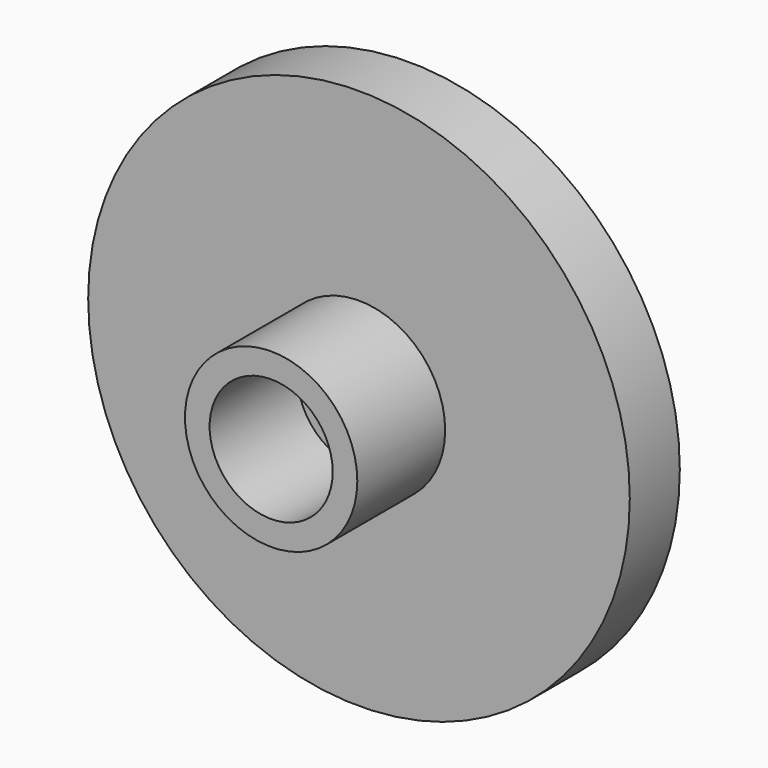
from build123d import *

# Parameters (mm, degrees)
F0_R     = 3.5
F0_R_2   = 2.5
F1_DEPTH = 7
F2_R     = 11
F3_DEPTH = 2.54


with BuildPart() as f1:
    # F0 (on Front) → F1 (new body)
    with BuildSketch(Plane.XZ):
        Circle(F0_R)
        Circle(F0_R_2, mode=Mode.SUBTRACT)
    extrude(amount=F1_DEPTH)

    # F2 (on Front) → F3 (join)
    with BuildSketch(Plane.XZ):
        Circle(F2_R)
    extrude(amount=F3_DEPTH)


solid = f1.part
